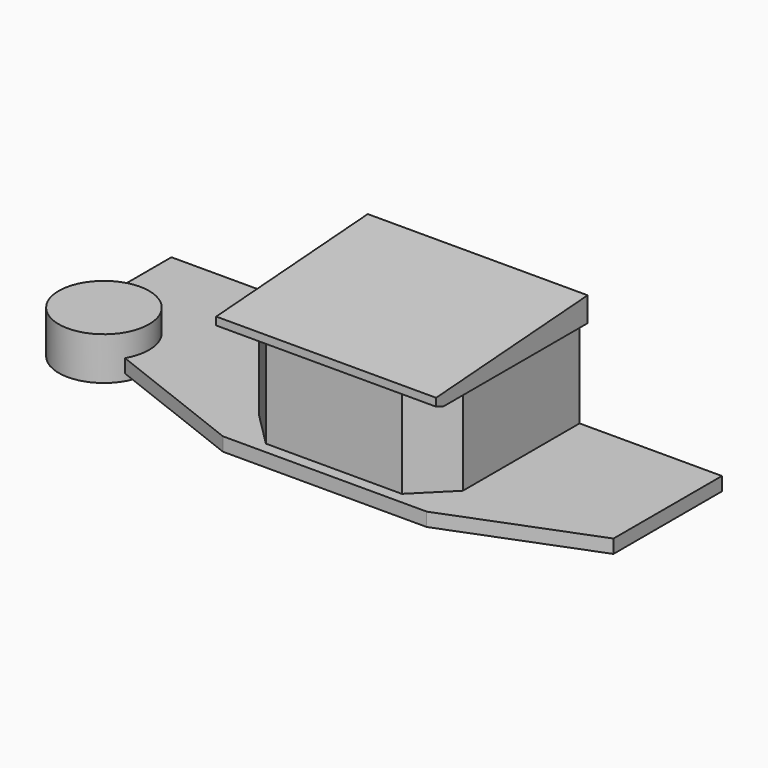
from build123d import *

# Parameters (mm, degrees)
F2_R      = 1000
F3_DEPTH  = 500
F3_FACE_R = 1000
F4_DEPTH  = 950
F5_DEPTH  = 300
F6_DEPTH  = 2010
F9_DEPTH  = 4866.48092


with BuildPart() as f3:
    # F2 (on Top) → F3 (new body)
    with BuildSketch(Plane.XY):
        with Locations((-11676.506328, -2500.000255)):
            Circle(F2_R)
    extrude(amount=F3_DEPTH)

    # F3_face (on face) → F4 (join)
    with BuildSketch(Plane(origin=(-11676.506328, -2500.000255, 500), x_dir=(1, 0, 0), z_dir=(0, 0, 1))):
        Circle(F3_FACE_R)
    extrude(amount=-F4_DEPTH)

    # F1 (on Top) → F5 (join)
    with BuildSketch(Plane.XY):
        Polygon((0, -3000), (0, 0), (-8330, 0), (-8330, 450), (-12542.531732, 450), (-12542.531732, -2000), (-10810.480924, -3000), (-7660.480924, -4228.240255), (-3150, -4228.240255), align=None)
    extrude(amount=-F5_DEPTH)

    # F0 (on Top) → F6 (join)
    with BuildSketch(Plane.XY):
        Polygon((-7572.092543, 0), (-7660.480924, 0), (-7660.480924, -3228.000255), (-6910.240335, -3978.240255), (-3900.240335, -3978.240255), (-3150, -3228), (-3150, 0), (-3450, 0), (-4240, 0), (-5815, 0), (-6870, 0), align=None)
    extrude(amount=F6_DEPTH)


with BuildPart() as f9:
    # F8 (on offset) → F9 (new body)
    with BuildSketch(Plane.YZ.offset(-2972)):
        Polygon((-3986.429453, 2010.001421), (0, 2010.001421), (0, 2554.001421), (-4191.764139, 2260.884718), (-4191.764139, 2086.743298), align=None)
    extrude(amount=-F9_DEPTH)


solid = Compound([f3.part, f9.part])
